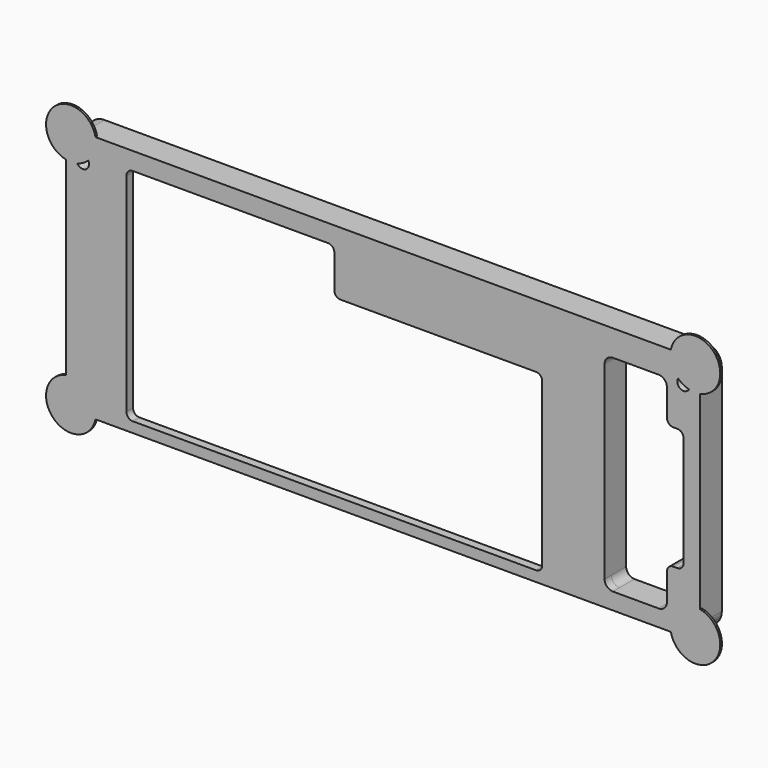
from build123d import *

# Parameters (mm, degrees)
F0_R     = 1.5
F0_W     = 15
F0_H     = 49.5
F1_DEPTH = 4.5
F2_R     = 2
F3_R     = 1.5
F4_DEPTH = 2
F5_W     = 4
F5_H     = 29.5
F6_DEPTH = 6.501
F7_R     = 1.5
F8_R     = 6
F9_DEPTH = 0.5


with BuildPart() as f1:
    # F0 (on Front) → F1 (new body)
    with BuildSketch(Plane.XZ):
        with BuildLine():
            ThreePointArc((-76.25, -24.75), (-72.25, -28.75), (-68.25, -24.75))
            Line((-68.25, -24.75), (-68.25, 24.75))
            Line((-68.25, 24.75), (-68.25, 26.75))
            Line((-68.25, 26.75), (40.25, 26.75))
            Line((40.25, 26.75), (40.25, 24.75))
            Line((40.25, 24.75), (40.25, -24.75))
            ThreePointArc((40.25, -24.75), (41.4215728753, -27.5784271247), (44.25, -28.75))
            Line((44.25, -28.75), (72.25, -28.75))
            ThreePointArc((72.25, -28.75), (75.0784271247, -27.5784271247), (76.25, -24.75))
            Line((76.25, -24.75), (76.25, 27))
            ThreePointArc((76.25, 27), (75.0784271247, 29.8284271247), (72.25, 31))
            Line((72.25, 31), (-72.25, 31))
            ThreePointArc((-72.25, 31), (-75.0784271247, 29.8284271247), (-76.25, 27))
            Line((-76.25, 27), (-76.25, -24.75))
        make_face()
        with Locations((-72.25, -24.75)):
            Circle(F0_R, mode=Mode.SUBTRACT)
        with Locations((72.25, -24.75)):
            Circle(F0_R, mode=Mode.SUBTRACT)
        with Locations((60.75, 0)):
            Rectangle(F0_W, F0_H, mode=Mode.SUBTRACT)
        with Locations((-72.25, 24.75)):
            Circle(F0_R, mode=Mode.SUBTRACT)
        with Locations((72.25, 24.75)):
            Circle(F0_R, mode=Mode.SUBTRACT)
    extrude(amount=F1_DEPTH)

    # F2
    f2_edges = [f1.edges().sort_by_distance(p)[0] for p in [
        (-68.25, -2.25, -24.75),
        (40.25, -2.25, -24.75),
        (68.25, -2.25, 24.75),
        (53.25, -2.25, 24.75),
        (53.25, -2.25, -24.75),
        (68.25, -2.25, -24.75),
    ]]
    fillet(f2_edges, radius=F2_R)

    # F3 (on face) → F4 (join)
    with BuildSketch(Plane.XZ.offset(4.5)):
        with BuildLine():
            Line((-76.25, 27), (-76.25, -24.75))
            ThreePointArc((-76.25, -24.75), (-75.0784271247, -27.5784271247), (-72.25, -28.75))
            Line((-72.25, -28.75), (72.25, -28.75))
            ThreePointArc((72.25, -28.75), (75.0784271247, -27.5784271247), (76.25, -24.75))
            Line((76.25, -24.75), (76.25, 27))
            ThreePointArc((76.25, 27), (75.0784271247, 29.8284271247), (72.25, 31))
            Line((72.25, 31), (-72.25, 31))
            ThreePointArc((-72.25, 31), (-75.0784271247, 29.8284271247), (-76.25, 27))
        make_face()
        with Locations((-72.25, -24.75)):
            Circle(F3_R, mode=Mode.SUBTRACT)
        Polygon((38.25, -26.25), (-61.75, -26.25), (-61.75, 15.75), (-61.75, 26.75), (-11.75, 26.75), (-11.75, 15.75), (38.25, 15.75), align=None, mode=Mode.SUBTRACT)
        with Locations((72.25, -24.75)):
            Circle(F3_R, mode=Mode.SUBTRACT)
        with BuildLine():
            ThreePointArc((55.25, -24.75), (53.8357864376, -24.1642135624), (53.25, -22.75))
            Line((53.25, -22.75), (53.25, 22.75))
            ThreePointArc((53.25, 22.75), (53.8357864376, 24.1642135624), (55.25, 24.75))
            Line((55.25, 24.75), (66.25, 24.75))
            ThreePointArc((66.25, 24.75), (67.6642135624, 24.1642135624), (68.25, 22.75))
            Line((68.25, 22.75), (68.25, -22.75))
            ThreePointArc((68.25, -22.75), (67.6642135624, -24.1642135624), (66.25, -24.75))
            Line((66.25, -24.75), (55.25, -24.75))
        make_face(mode=Mode.SUBTRACT)
        with Locations((-72.25, 24.75)):
            Circle(F3_R, mode=Mode.SUBTRACT)
        with Locations((72.25, 24.75)):
            Circle(F3_R, mode=Mode.SUBTRACT)
    extrude(amount=F4_DEPTH)

    # F5 (on face) → F6 (cut, through all)
    with BuildSketch(Plane.XZ.offset(6.5)):
        with Locations((70.25, 0)):
            Rectangle(F5_W, F5_H)
    extrude(amount=-F6_DEPTH, mode=Mode.SUBTRACT)

    # F7
    f7_edges = [f1.edges().sort_by_distance(p)[0] for p in [
        (-11.75, -5.5, 26.75),
        (-11.75, -5.5, 15.75),
        (-61.75, -5.5, 26.75),
        (38.25, -5.5, 15.75),
        (38.25, -5.5, -26.25),
        (-61.75, -5.5, -26.25),
        (68.25, -3.25, 14.75),
        (72.25, -3.25, 14.75),
        (68.25, -3.25, -14.75),
        (72.25, -3.25, -14.75),
        (40.25, -2.25, 26.75),
        (-68.25, -2.25, 26.75),
    ]]
    fillet(f7_edges, radius=F7_R)

    # F8 (on face) → F9 (join)
    with BuildSketch(Plane.XZ.offset(6.5)):
        with Locations((-75.0784271247, 29.8284271247)):
            Circle(F8_R)
        with Locations((-75.0784271247, -27.5784271247)):
            Circle(F8_R)
        with Locations((75.0784271247, 29.8284271247)):
            Circle(F8_R)
        with Locations((75.0784271247, -27.5784271247)):
            Circle(F8_R)
    extrude(amount=-F9_DEPTH)


solid = f1.part
